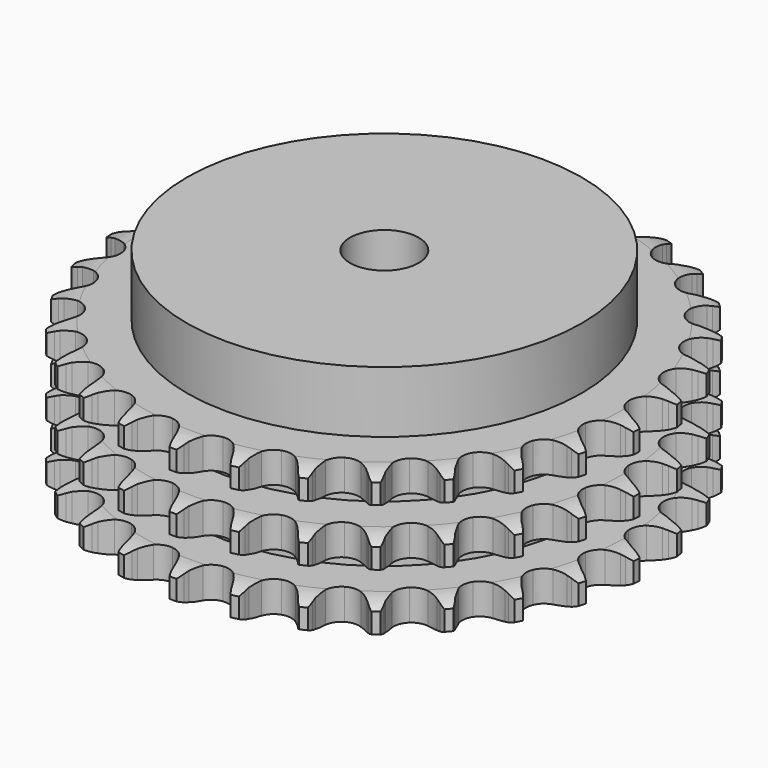
from build123d import *

# Parameters (mm, degrees)
PAD_DEPTH         = 42.1
SKETCH001_R       = 57.5
PAD001_DEPTH      = 60
SKETCH002_R       = 10
POCKET_DEPTH      = 0.001
POCKET_DEPTH_BACK = 60.001


with BuildPart() as part:
    # Sprocket → Pad (new body)
    with BuildSketch(Plane.XY):
        with BuildLine():
            ThreePointArc((-8.475496, 77.930902), (-7.262722, 76.507234), (-6.399868, 74.847977))
            Line((-6.399868, 74.847977), (-5.904596, 73.557748))
            ThreePointArc((-5.904596, 73.557748), (-5.118224, 71.872693), (-4.104053, 70.314088))
            ThreePointArc((-4.104053, 70.314088), (-2.292248, 68.809991), (0, 68.270966))
            ThreePointArc((0, 68.270966), (2.292248, 68.809991), (4.104053, 70.314088))
            ThreePointArc((4.104053, 70.314088), (5.118224, 71.872693), (5.904596, 73.557748))
            Line((5.904596, 73.557748), (6.399868, 74.847977))
            ThreePointArc((6.399868, 74.847977), (7.262722, 76.507234), (8.475496, 77.930902))
            ThreePointArc((8.475496, 77.930902), (9.35387, 76.279808), (9.83986, 74.473855))
            Line((9.83986, 74.473855), (10.046192, 73.107322))
            ThreePointArc((10.046192, 73.107322), (10.451942, 71.292616), (11.107348, 69.552434))
            ThreePointArc((11.107348, 69.552434), (12.553458, 67.694017), (14.67624, 66.674829))
            ThreePointArc((14.67624, 66.674829), (17.03077, 66.708486), (19.123553, 67.787934))
            Line((19.123553, 67.787934), (21.579291, 70.568695))
            ThreePointArc((21.579291, 70.568695), (21.944792, 71.155406), (22.340345, 71.72229))
            ThreePointArc((22.340345, 71.72229), (23.539717, 73.157267), (25.030184, 74.286939))
            ThreePointArc((25.030184, 74.286939), (25.533086, 72.485623), (25.619487, 70.617419))
            Line((25.619487, 70.617419), (25.527231, 69.23848))
            ThreePointArc((25.527231, 69.23848), (25.533386, 67.378976), (25.799382, 65.538585))
            ThreePointArc((25.799382, 65.538585), (26.812177, 63.412746), (28.666235, 61.961051))
            ThreePointArc((28.666235, 61.961051), (30.972953, 61.487766), (33.248857, 62.092091))
            Line((33.248857, 62.092091), (36.244963, 64.279929))
            ThreePointArc((36.244963, 64.279929), (36.728044, 64.774351), (37.236213, 65.242949))
            ThreePointArc((37.236213, 65.242949), (38.716022, 66.386547), (40.414488, 67.169402))
            ThreePointArc((40.414488, 67.169402), (40.518403, 65.30209), (40.201175, 63.45899))
            Line((40.201175, 63.45899), (39.814645, 62.132122))
            ThreePointArc((39.814645, 62.132122), (39.420918, 60.31477), (39.285065, 58.460225))
            ThreePointArc((39.285065, 58.460225), (39.81719, 56.166366), (41.315828, 54.350043))
            ThreePointArc((41.315828, 54.350043), (43.466875, 53.391947), (45.819481, 53.492891))
            Line((45.819481, 53.492891), (49.21586, 54.985504))
            ThreePointArc((49.21586, 54.985504), (49.793933, 55.364518), (50.390956, 55.71292))
            ThreePointArc((50.390956, 55.71292), (52.082008, 56.511666), (53.909056, 56.911099))
            ThreePointArc((53.909056, 56.911099), (53.609124, 55.065105), (52.903101, 53.33329))
            Line((52.903101, 53.33329), (52.24037, 52.120536))
            ThreePointArc((52.24037, 52.120536), (51.465171, 50.430312), (50.933822, 48.64833))
            ThreePointArc((50.933822, 48.64833), (50.960394, 46.293708), (52.03354, 44.197687))
            ThreePointArc((52.03354, 44.197687), (53.928334, 42.79958), (56.247638, 42.392423))
            Line((56.247638, 42.392423), (59.885479, 43.120018))
            ThreePointArc((59.885479, 43.120018), (60.531514, 43.365903), (61.189475, 43.577817))
            ThreePointArc((61.189475, 43.577817), (63.012697, 43.994363), (64.882896, 43.991695))
            ThreePointArc((64.882896, 43.991695), (64.193143, 42.253336), (63.131337, 40.713785))
            Line((63.131337, 40.713785), (62.223394, 39.671852))
            ThreePointArc((62.223394, 39.671852), (61.10297, 38.187789), (60.200971, 36.561693))
            ThreePointArc((60.200971, 36.561693), (59.720747, 34.256409), (60.318221, 31.978697))
            ThreePointArc((60.318221, 31.978697), (61.868164, 30.205952), (64.045717, 29.309732))
            Line((64.045717, 29.309732), (67.754919, 29.238289))
            ThreePointArc((67.754919, 29.238289), (68.438708, 29.339546), (69.126841, 29.405064))
            ThreePointArc((69.126841, 29.405064), (70.996983, 29.419932), (72.822884, 29.015289))
            ThreePointArc((72.822884, 29.015289), (71.775561, 27.465849), (70.407621, 26.190548))
            Line((70.407621, 26.190548), (69.296921, 25.368155))
            ThreePointArc((69.296921, 25.368155), (67.883663, 24.159647), (66.653189, 22.765471))
            ThreePointArc((66.653189, 22.765471), (65.688625, 20.617318), (65.782489, 18.264418))
            ThreePointArc((65.782489, 18.264418), (66.915107, 16.199927), (68.84909, 14.856551))
            Line((68.84909, 14.856551), (72.456214, 13.989409))
            ThreePointArc((72.456214, 13.989409), (73.145784, 13.941305), (73.831913, 13.857362))
            ThreePointArc((73.831913, 13.857362), (75.661529, 13.469858), (77.357755, 12.68216))
            ThreePointArc((77.357755, 12.68216), (76.001834, 11.394089), (74.391724, 10.44267))
            Line((74.391724, 10.44267), (73.130201, 9.878272))
            ThreePointArc((73.130201, 9.878272), (71.49019, 9.001827), (69.988778, 7.904762))
            ThreePointArc((69.988778, 7.904762), (68.584975, 6.014184), (68.170841, 3.696116))
            ThreePointArc((68.170841, 3.696116), (68.833175, 1.436412), (70.433155, -0.291306))
            Line((70.433155, -0.291306), (73.769538, -1.9136))
            ThreePointArc((73.769538, -1.9136), (74.432645, -2.108816), (75.084688, -2.338294))
            ThreePointArc((75.084688, -2.338294), (76.788225, -3.110052), (78.275463, -4.243972))
            ThreePointArc((78.275463, -4.243972), (76.674345, -5.210446), (74.897352, -5.793496))
            Line((74.897352, -5.793496), (73.543994, -6.073508))
            ThreePointArc((73.543994, -6.073508), (71.753916, -6.576908), (70.051769, -7.325565))
            ThreePointArc((70.051769, -7.325565), (68.274368, -8.870167), (67.3716, -11.045013))
            ThreePointArc((67.3716, -11.045013), (67.532679, -13.394269), (68.723845, -15.425542))
            Line((68.723845, -15.425542), (71.63348, -17.727131))
            ThreePointArc((71.63348, -17.727131), (72.239117, -18.060332), (72.826585, -18.424615))
            ThreePointArc((72.826585, -18.424615), (74.32439, -19.54454), (75.533098, -20.971661))
            ThreePointArc((75.533098, -20.971661), (73.76165, -21.571347), (71.900863, -21.758764))
            Line((71.900863, -21.758764), (70.518952, -21.741297))
            ThreePointArc((70.518952, -21.741297), (68.662508, -21.848115), (66.839218, -22.213357))
            ThreePointArc((66.839218, -22.213357), (64.771328, -23.339758), (63.422138, -25.269689))
            ThreePointArc((63.422138, -25.269689), (63.074431, -27.598648), (63.801084, -29.838496))
            Line((63.801084, -29.838496), (66.147919, -32.711761))
            ThreePointArc((66.147919, -32.711761), (66.66777, -33.167366), (67.163192, -33.64942))
            ThreePointArc((67.163192, -33.64942), (68.385229, -35.065146), (69.258889, -36.718739))
            ThreePointArc((69.258889, -36.718739), (67.399941, -36.923595), (65.54237, -36.706616))
            Line((65.54237, -36.706616), (64.196522, -36.392488))
            ThreePointArc((64.196522, -36.392488), (62.360518, -36.097728), (60.501339, -36.062477))
            ThreePointArc((60.501339, -36.062477), (58.239652, -36.718009), (56.507127, -38.312783))
            ThreePointArc((56.507127, -38.312783), (55.666892, -40.512545), (55.895056, -42.856236))
            Line((55.895056, -42.856236), (57.569356, -46.166826))
            ThreePointArc((57.569356, -46.166826), (57.979111, -46.723531), (58.359324, -47.300817))
            ThreePointArc((58.359324, -47.300817), (59.24845, -48.946145), (59.746211, -50.748889))
            ThreePointArc((59.746211, -50.748889), (57.886687, -50.549337), (56.119188, -49.938108))
            Line((56.119188, -49.938108), (54.872333, -49.342006))
            ThreePointArc((54.872333, -49.342006), (53.14262, -48.659451), (51.334484, -48.225356))
            ThreePointArc((51.334484, -48.225356), (48.984755, -48.379366), (46.949906, -49.564414))
            ThreePointArc((46.949906, -49.564414), (45.656432, -51.532121), (45.375437, -53.870066))
            Line((45.375437, -53.870066), (46.298914, -57.463181))
            ThreePointArc((46.298914, -57.463181), (46.579413, -58.094956), (46.826638, -58.740479))
            ThreePointArc((46.826638, -58.740479), (47.34128, -60.538477), (47.439867, -62.406078))
            ThreePointArc((47.439867, -62.406078), (45.666715, -61.811448), (44.071936, -60.834549))
            Line((44.071936, -60.834549), (42.982376, -59.984347))
            ThreePointArc((42.982376, -59.984347), (41.439831, -58.945912), (39.767287, -58.133271))
            ThreePointArc((39.767287, -58.133271), (37.439385, -57.778557), (35.19736, -58.498467))
            ThreePointArc((35.19736, -58.498467), (33.511127, -60.142111), (32.734112, -62.364991))
            Line((32.734112, -62.364991), (32.863586, -66.072621))
            ThreePointArc((32.863586, -66.072621), (33.001714, -66.749925), (33.10439, -67.433503))
            ThreePointArc((33.10439, -67.433503), (33.220484, -69.300097), (32.915287, -71.145227))
            ThreePointArc((32.915287, -71.145227), (31.311418, -70.183325), (29.963929, -68.886435))
            Line((29.963929, -68.886435), (29.08261, -67.821887))
            ThreePointArc((29.08261, -67.821887), (27.799362, -66.476128), (26.340615, -65.322938))
            ThreePointArc((26.340615, -65.322938), (24.143391, -64.476088), (21.799024, -64.697197))
            ThreePointArc((21.799024, -64.697197), (19.798879, -65.939924), (18.562177, -67.943799))
            Line((18.562177, -67.943799), (17.891593, -71.59258))
            ThreePointArc((17.891593, -71.59258), (17.880892, -72.283742), (17.834218, -72.97341))
            ThreePointArc((17.834218, -72.97341), (17.546335, -74.821321), (16.851625, -76.557705))
            ThreePointArc((16.851625, -76.557705), (15.492035, -75.273507), (14.454842, -73.717267))
            Line((14.454842, -73.717267), (13.822974, -72.48815))
            ThreePointArc((13.822974, -72.48815), (12.859026, -70.897995), (11.682285, -69.458178))
            ThreePointArc((11.682285, -69.458178), (9.718479, -68.158788), (7.38139, -67.870759))
            ThreePointArc((7.38139, -67.870759), (5.160858, -68.654459), (3.522295, -70.34563))
            Line((3.522295, -70.34563), (2.083009, -73.764949))
            ThreePointArc((2.083009, -73.764949), (1.923978, -74.437652), (1.730138, -75.101162))
            ThreePointArc((1.730138, -75.101162), (1.05174, -76.843984), (0, -78.39043))
            ThreePointArc((0, -78.39043), (-1.05174, -76.843984), (-1.730138, -75.101162))
            Line((-1.730138, -75.101162), (-2.083009, -73.764949))
            ThreePointArc((-2.083009, -73.764949), (-2.682584, -72.004749), (-3.522295, -70.34563))
            ThreePointArc((-3.522295, -70.34563), (-5.160858, -68.654459), (-7.38139, -67.870759))
            ThreePointArc((-7.38139, -67.870759), (-9.718479, -68.158788), (-11.682285, -69.458178))
            Line((-11.682285, -69.458178), (-13.822974, -72.48815))
            ThreePointArc((-13.822974, -72.48815), (-14.122898, -73.110939), (-14.454842, -73.717267))
            ThreePointArc((-14.454842, -73.717267), (-15.492035, -75.273507), (-16.851625, -76.557705))
            ThreePointArc((-16.851625, -76.557705), (-17.546335, -74.821321), (-17.834218, -72.97341))
            Line((-17.834218, -72.97341), (-17.891593, -71.59258))
            ThreePointArc((-17.891593, -71.59258), (-18.098759, -69.744642), (-18.562177, -67.943799))
            ThreePointArc((-18.562177, -67.943799), (-19.798879, -65.939924), (-21.799024, -64.697197))
            ThreePointArc((-21.799024, -64.697197), (-24.143391, -64.476088), (-26.340615, -65.322938))
            Line((-26.340615, -65.322938), (-29.08261, -67.821887))
            ThreePointArc((-29.08261, -67.821887), (-29.509403, -68.365641), (-29.963929, -68.886435))
            ThreePointArc((-29.963929, -68.886435), (-31.311418, -70.183325), (-32.915287, -71.145227))
            ThreePointArc((-32.915287, -71.145227), (-33.220484, -69.300097), (-33.10439, -67.433503))
            Line((-33.10439, -67.433503), (-32.863586, -66.072621))
            ThreePointArc((-32.863586, -66.072621), (-32.668657, -64.223353), (-32.734112, -62.364991))
            ThreePointArc((-32.734112, -62.364991), (-33.511127, -60.142111), (-35.19736, -58.498467))
            ThreePointArc((-35.19736, -58.498467), (-37.439385, -57.778557), (-39.767287, -58.133271))
            Line((-39.767287, -58.133271), (-42.982376, -59.984347))
            ThreePointArc((-42.982376, -59.984347), (-43.516082, -60.42364), (-44.071936, -60.834549))
            ThreePointArc((-44.071936, -60.834549), (-45.666715, -61.811448), (-47.439867, -62.406078))
            ThreePointArc((-47.439867, -62.406078), (-47.34128, -60.538477), (-46.826638, -58.740479))
            Line((-46.826638, -58.740479), (-46.298914, -57.463181))
            ThreePointArc((-46.298914, -57.463181), (-45.711004, -55.699051), (-45.375437, -53.870066))
            ThreePointArc((-45.375437, -53.870066), (-45.656432, -51.532121), (-46.949906, -49.564414))
            ThreePointArc((-46.949906, -49.564414), (-48.984755, -48.379366), (-51.334484, -48.225356))
            Line((-51.334484, -48.225356), (-54.872333, -49.342006))
            ThreePointArc((-54.872333, -49.342006), (-55.487996, -49.656298), (-56.119188, -49.938108))
            ThreePointArc((-56.119188, -49.938108), (-57.886687, -50.549337), (-59.746211, -50.748889))
            ThreePointArc((-59.746211, -50.748889), (-59.24845, -48.946145), (-58.359324, -47.300817))
            Line((-58.359324, -47.300817), (-57.569356, -46.166826))
            ThreePointArc((-57.569356, -46.166826), (-56.615956, -44.570323), (-55.895056, -42.856236))
            ThreePointArc((-55.895056, -42.856236), (-55.666892, -40.512545), (-56.507127, -38.312783))
            ThreePointArc((-56.507127, -38.312783), (-58.239652, -36.718009), (-60.501339, -36.062477))
            Line((-60.501339, -36.062477), (-64.196522, -36.392488))
            ThreePointArc((-64.196522, -36.392488), (-64.865354, -36.567082), (-65.54237, -36.706616))
            ThreePointArc((-65.54237, -36.706616), (-67.399941, -36.923595), (-69.258889, -36.718739))
            ThreePointArc((-69.258889, -36.718739), (-68.385229, -35.065146), (-67.163192, -33.64942))
            Line((-67.163192, -33.64942), (-66.147919, -32.711761))
            ThreePointArc((-66.147919, -32.711761), (-64.873608, -31.357537), (-63.801084, -29.838496))
            ThreePointArc((-63.801084, -29.838496), (-63.074431, -27.598648), (-63.422138, -25.269689))
            ThreePointArc((-63.422138, -25.269689), (-64.771328, -23.339758), (-66.839218, -22.213357))
            Line((-66.839218, -22.213357), (-70.518952, -21.741297))
            ThreePointArc((-70.518952, -21.741297), (-71.20968, -21.768031), (-71.900863, -21.758764))
            ThreePointArc((-71.900863, -21.758764), (-73.76165, -21.571347), (-75.533098, -20.971661))
            ThreePointArc((-75.533098, -20.971661), (-74.32439, -19.54454), (-72.826585, -18.424615))
            Line((-72.826585, -18.424615), (-71.63348, -17.727131))
            ThreePointArc((-71.63348, -17.727131), (-70.097843, -16.678507), (-68.723845, -15.425542))
            ThreePointArc((-68.723845, -15.425542), (-67.532679, -13.394269), (-67.3716, -11.045013))
            ThreePointArc((-67.3716, -11.045013), (-68.274368, -8.870167), (-70.051769, -7.325565))
            Line((-70.051769, -7.325565), (-73.543994, -6.073508))
            ThreePointArc((-73.543994, -6.073508), (-74.22432, -5.95113), (-74.897352, -5.793496))
            ThreePointArc((-74.897352, -5.793496), (-76.674345, -5.210446), (-78.275463, -4.243972))
            ThreePointArc((-78.275463, -4.243972), (-76.788225, -3.110052), (-75.084688, -2.338294))
            Line((-75.084688, -2.338294), (-73.769538, -1.9136))
            ThreePointArc((-73.769538, -1.9136), (-72.04438, -1.219609), (-70.433155, -0.291306))
            ThreePointArc((-70.433155, -0.291306), (-68.833175, 1.436412), (-68.170841, 3.696116))
            ThreePointArc((-68.170841, 3.696116), (-68.584975, 6.014184), (-69.988778, 7.904762))
            Line((-69.988778, 7.904762), (-73.130201, 9.878272))
            ThreePointArc((-73.130201, 9.878272), (-73.768314, 10.144039), (-74.391724, 10.44267))
            ThreePointArc((-74.391724, 10.44267), (-76.001834, 11.394089), (-77.357755, 12.68216))
            ThreePointArc((-77.357755, 12.68216), (-75.661529, 13.469858), (-73.831913, 13.857362))
            Line((-73.831913, 13.857362), (-72.456214, 13.989409))
            ThreePointArc((-72.456214, 13.989409), (-70.622203, 14.296317), (-68.84909, 14.856551))
            ThreePointArc((-68.84909, 14.856551), (-66.915107, 16.199927), (-65.782489, 18.264418))
            ThreePointArc((-65.782489, 18.264418), (-65.688625, 20.617318), (-66.653189, 22.765471))
            Line((-66.653189, 22.765471), (-69.296921, 25.368155))
            ThreePointArc((-69.296921, 25.368155), (-69.862983, 25.764884), (-70.407621, 26.190548))
            ThreePointArc((-70.407621, 26.190548), (-71.775561, 27.465849), (-72.822884, 29.015289))
            ThreePointArc((-72.822884, 29.015289), (-70.996983, 29.419932), (-69.126841, 29.405064))
            Line((-69.126841, 29.405064), (-67.754919, 29.238289))
            ThreePointArc((-67.754919, 29.238289), (-65.897809, 29.143763), (-64.045717, 29.309732))
            ThreePointArc((-64.045717, 29.309732), (-61.868164, 30.205952), (-60.318221, 31.978697))
            ThreePointArc((-60.318221, 31.978697), (-59.720747, 34.256409), (-60.200971, 36.561693))
            Line((-60.200971, 36.561693), (-62.223394, 39.671852))
            ThreePointArc((-62.223394, 39.671852), (-62.690937, 40.180992), (-63.131337, 40.713785))
            ThreePointArc((-63.131337, 40.713785), (-64.193143, 42.253336), (-64.882896, 43.991695))
            ThreePointArc((-64.882896, 43.991695), (-63.012697, 43.994363), (-61.189475, 43.577817))
            Line((-61.189475, 43.577817), (-59.885479, 43.120018))
            ThreePointArc((-59.885479, 43.120018), (-58.092107, 42.628479), (-56.247638, 42.392423))
            ThreePointArc((-56.247638, 42.392423), (-53.928334, 42.79958), (-52.03354, 44.197687))
            ThreePointArc((-52.03354, 44.197687), (-50.960394, 46.293708), (-50.933822, 48.64833))
            Line((-50.933822, 48.64833), (-52.24037, 52.120536))
            ThreePointArc((-52.24037, 52.120536), (-52.587532, 52.718281), (-52.903101, 53.33329))
            ThreePointArc((-52.903101, 53.33329), (-53.609124, 55.065105), (-53.909056, 56.911099))
            ThreePointArc((-53.909056, 56.911099), (-52.082008, 56.511666), (-50.390956, 55.71292))
            Line((-50.390956, 55.71292), (-49.21586, 54.985504))
            ThreePointArc((-49.21586, 54.985504), (-47.570083, 54.119935), (-45.819481, 53.492891))
            ThreePointArc((-45.819481, 53.492891), (-43.466875, 53.391947), (-41.315828, 54.350043))
            ThreePointArc((-41.315828, 54.350043), (-39.81719, 56.166366), (-39.285065, 58.460225))
            Line((-39.285065, 58.460225), (-39.814645, 62.132122))
            ThreePointArc((-39.814645, 62.132122), (-40.025193, 62.790522), (-40.201175, 63.45899))
            ThreePointArc((-40.201175, 63.45899), (-40.518403, 65.30209), (-40.414488, 67.169402))
            ThreePointArc((-40.414488, 67.169402), (-38.716022, 66.386547), (-37.236213, 65.242949))
            Line((-37.236213, 65.242949), (-36.244963, 64.279929))
            ThreePointArc((-36.244963, 64.279929), (-34.823735, 63.080803), (-33.248857, 62.092091))
            ThreePointArc((-33.248857, 62.092091), (-30.972953, 61.487766), (-28.666235, 61.961051))
            ThreePointArc((-28.666235, 61.961051), (-26.812177, 63.412746), (-25.799382, 65.538585))
            Line((-25.799382, 65.538585), (-25.527231, 69.23848))
            ThreePointArc((-25.527231, 69.23848), (-25.59132, 69.926747), (-25.619487, 70.617419))
            ThreePointArc((-25.619487, 70.617419), (-25.533086, 72.485623), (-25.030184, 74.286939))
            ThreePointArc((-25.030184, 74.286939), (-23.539717, 73.157267), (-22.340345, 71.72229))
            Line((-22.340345, 71.72229), (-21.579291, 70.568695))
            ThreePointArc((-21.579291, 70.568695), (-20.449067, 69.092082), (-19.123553, 67.787934))
            ThreePointArc((-19.123553, 67.787934), (-17.03077, 66.708486), (-14.67624, 66.674829))
            ThreePointArc((-14.67624, 66.674829), (-12.553458, 67.694017), (-11.107348, 69.552434))
            Line((-11.107348, 69.552434), (-10.046192, 73.107322))
            ThreePointArc((-10.046192, 73.107322), (-9.960826, 73.793276), (-9.83986, 74.473855))
            ThreePointArc((-9.83986, 74.473855), (-9.35387, 76.279808), (-8.475496, 77.930902))
        make_face()
    extrude(amount=PAD_DEPTH)

    # Sketch → Groove (revolve, cut)
    with BuildSketch(Plane.XZ):
        with BuildLine():
            ThreePointArc((69.925762, 0), (73.50347, 0.405129), (76.9, 1.6))
            Line((76.9, 1.6), (76.9, 7.4))
            ThreePointArc((76.9, 7.4), (73.50347, 8.594871), (69.925762, 9))
            Line((57.5, 9), (69.925762, 9))
            Line((57.5, 9), (57.5, 16.55))
            Line((57.5, 16.55), (69.925762, 16.55))
            ThreePointArc((69.925762, 16.55), (73.50347, 16.955129), (76.9, 18.15))
            Line((76.9, 23.95), (76.9, 18.15))
            ThreePointArc((76.9, 23.95), (73.50347, 25.144871), (69.925762, 25.55))
            Line((57.5, 25.55), (69.925762, 25.55))
            Line((57.5, 33.1), (57.5, 25.55))
            Line((69.925762, 33.1), (57.5, 33.1))
            ThreePointArc((69.925762, 33.1), (73.50347, 33.505129), (76.9, 34.7))
            Line((76.9, 34.7), (76.9, 40.5))
            ThreePointArc((76.9, 40.5), (73.50347, 41.694871), (69.925762, 42.1))
            Line((69.925762, 42.1), (86.9, 42.1))
            Line((86.9, 42.1), (86.9, 0))
            Line((69.925762, 0), (86.9, 0))
        make_face()
    revolve(axis=Axis((0, 0, 0), (0, 0, 1)), mode=Mode.SUBTRACT)

    # Sketch001 → Pad001 (join)
    with BuildSketch(Plane.XY):
        Circle(SKETCH001_R)
    extrude(amount=PAD001_DEPTH)

    # Sketch002 → Pocket (cut, two sides)
    with BuildSketch(Plane.XY) as pocket_sk:
        Circle(SKETCH002_R)
    extrude(amount=-POCKET_DEPTH, mode=Mode.SUBTRACT)
    extrude(pocket_sk.sketch, amount=POCKET_DEPTH_BACK, mode=Mode.SUBTRACT)


solid = part.part
